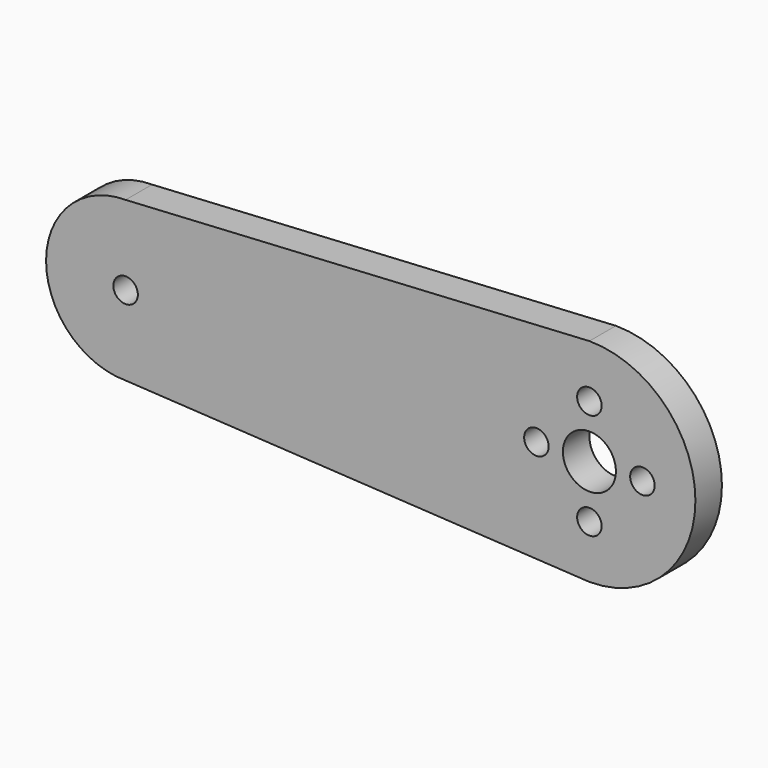
from build123d import *

# Parameters (mm, degrees)
F0_R     = 1.85
F0_R_2   = 4
F1_DEPTH = 2.5


with BuildPart() as f1:
    # F0 (on Front) → F1 (new body, symmetric)
    with BuildSketch(Plane.XZ):
        with BuildLine():
            ThreePointArc((-35, 12), (-47, 0), (-35, -12))
            Line((-35, -12), (35, -16))
            ThreePointArc((35, -16), (51, 0), (35, 16))
            Line((35, 16), (-35, 12))
        make_face()
        with Locations((35, -8)):
            Circle(F0_R, mode=Mode.SUBTRACT)
        with Locations((-35, 0)):
            Circle(F0_R, mode=Mode.SUBTRACT)
        with Locations((27, 0)):
            Circle(F0_R, mode=Mode.SUBTRACT)
        with Locations((35, 0)):
            Circle(F0_R_2, mode=Mode.SUBTRACT)
        with Locations((43, 0)):
            Circle(F0_R, mode=Mode.SUBTRACT)
        with Locations((35, 8)):
            Circle(F0_R, mode=Mode.SUBTRACT)
    extrude(amount=F1_DEPTH, both=True)


solid = f1.part
